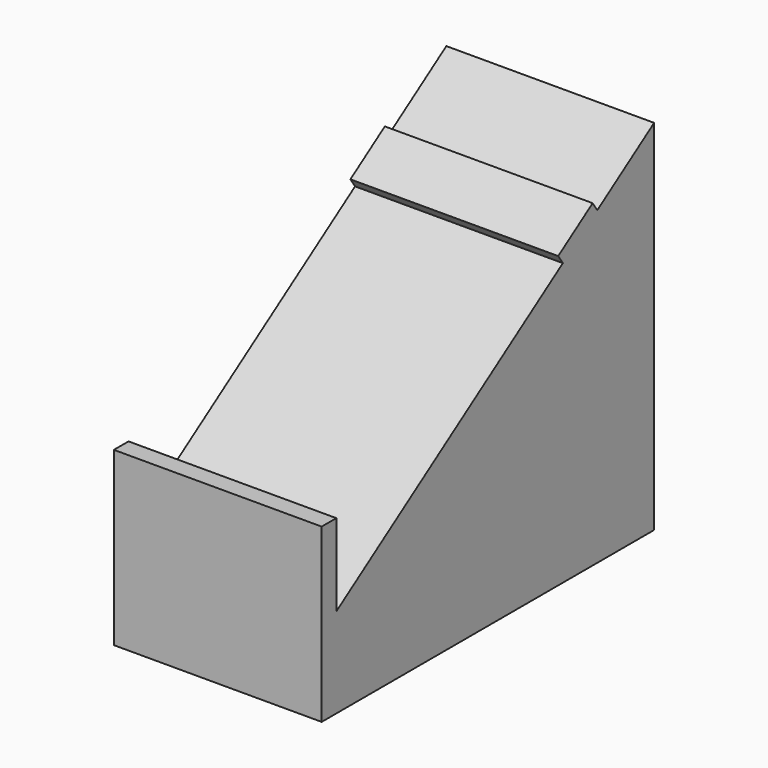
from build123d import *

# Parameters (mm, degrees)
F1_DEPTH = 50.8
F2_W     = 50.8
F2_H     = 12.7
F3_DEPTH = 2.54


with BuildPart() as f1:
    # F0 (on Right) → F1 (new body)
    with BuildSketch(Plane.YZ):
        Polygon((-97.119585, 21.958653), (-101.6, 18.928962), (-101.6, 0), (0, 0), (0, 87.63165), align=None)
        Polygon((-101.6, 42.036834), (-101.6, 18.928962), (-97.119585, 21.958653), (-97.119585, 42.036834), align=None)
    extrude(amount=F1_DEPTH)

    # F2 (on face) → F3 (join)
    with BuildSketch(Plane(origin=(0, -40.663519, 60.134671), x_dir=(1, 0, 0), z_dir=(0, -0.56016, 0.828385))):
        with Locations((25.4, 21.767601)):
            Rectangle(F2_W, F2_H)
    extrude(amount=F3_DEPTH)


solid = f1.part
